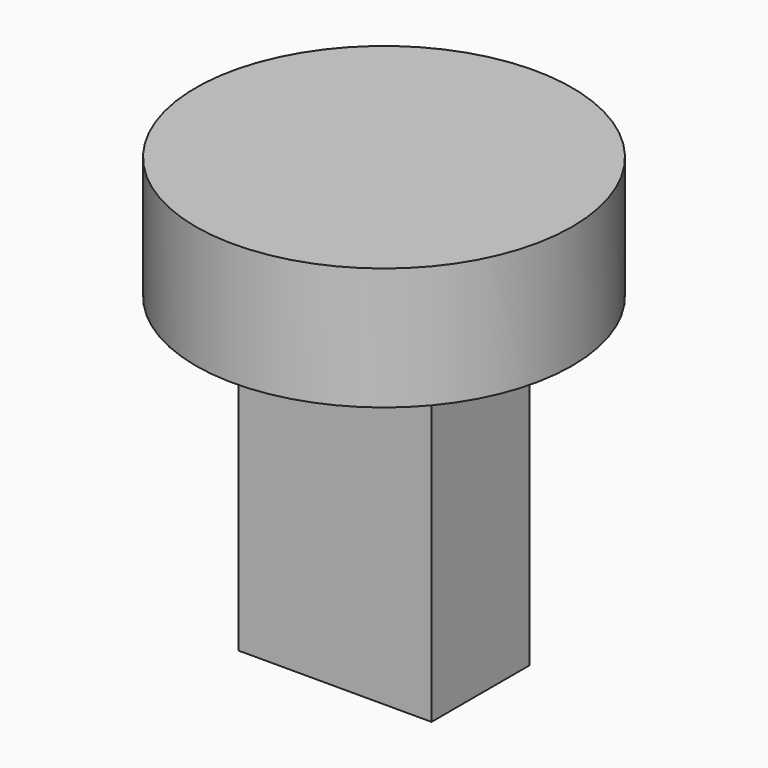
from build123d import *

# Parameters (mm, degrees)
F0_W     = 39.396897
F0_H     = 64.738132
F1_DEPTH = 25
F2_R     = 38.449862
F3_DEPTH = 25


with BuildPart() as f1:
    # F0 (on Front) → F1 (new body)
    with BuildSketch(Plane.XZ):
        with Locations((0.410388, -32.369066)):
            Rectangle(F0_W, F0_H)
    extrude(amount=F1_DEPTH)

    # F2 (on Top) → F3 (join)
    with BuildSketch(Plane.XY):
        with Locations((0, -12.003745)):
            Circle(F2_R)
    extrude(amount=F3_DEPTH)


solid = f1.part
